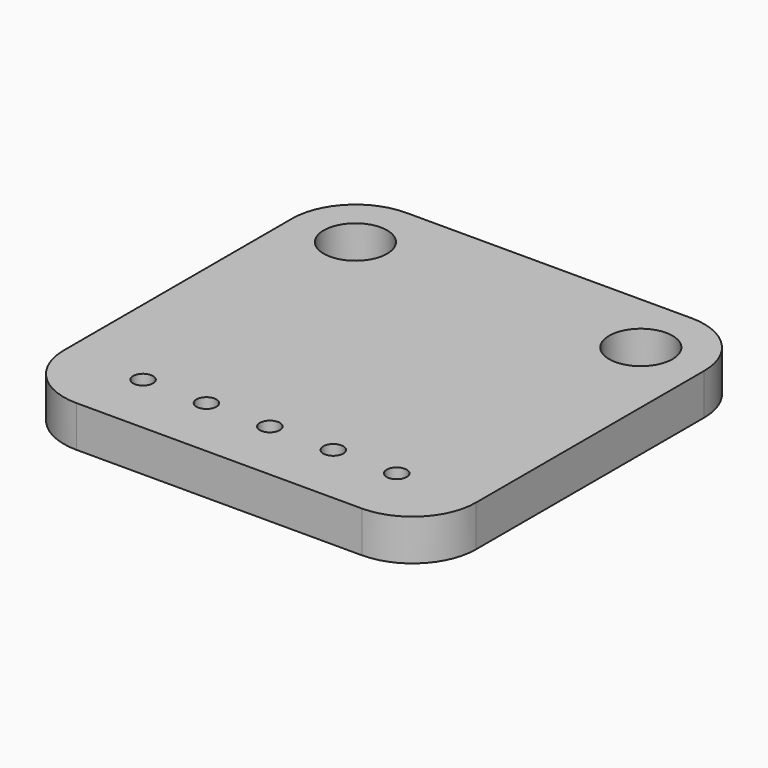
from build123d import *

# Parameters (mm, degrees)
PAD018_DEPTH           = 1.65
SKETCH050_R            = 1.27
POCKET030_DEPTH        = 1.651
SKETCH051_R            = 0.4
POCKET029_DEPTH        = 1.651
LINEARPATTERN004_COUNT = 3
LINEARPATTERN004_PITCH = 2.54
LINEARPATTERN005_COUNT = 3
LINEARPATTERN005_PITCH = 2.54


with BuildPart() as part:
    # Sketch049 → Pad018 (new body)
    with BuildSketch(Plane.XY):
        with BuildLine():
            Line((-5.715, 8.255), (5.715, 8.255))
            ThreePointArc((8.255, 5.715), (7.511051, 7.511051), (5.715, 8.255))
            Line((8.255, 5.715), (8.255, -5.715))
            ThreePointArc((5.715, -8.255), (7.511051, -7.511051), (8.255, -5.715))
            Line((5.715, -8.255), (-5.715, -8.255))
            ThreePointArc((-8.255, -5.715), (-7.511051, -7.511051), (-5.715, -8.255))
            Line((-8.255, -5.715), (-8.255, 5.715))
            ThreePointArc((-5.715, 8.255), (-7.511051, 7.511051), (-8.255, 5.715))
        make_face()
    extrude(amount=-PAD018_DEPTH)

    # Sketch050 → Pocket030 (cut, through all)
    with BuildSketch(Plane.XY):
        with Locations((-5.715, 5.715)):
            Circle(SKETCH050_R)
        with Locations((5.715, 5.715)):
            Circle(SKETCH050_R)
    extrude(amount=-POCKET030_DEPTH, mode=Mode.SUBTRACT)

    # Sketch051 → Pocket029 (cut, through all)
    with BuildSketch(Plane.XY):
        with Locations((0, -5.715)):
            Circle(SKETCH051_R)
    pocket029 = extrude(amount=-POCKET029_DEPTH, mode=Mode.SUBTRACT)

    # LinearPattern004: Pocket029 ×3
    with Locations(*[(i * LINEARPATTERN004_PITCH, 0, 0) for i in range(1, LINEARPATTERN004_COUNT)]):
        add(pocket029, mode=Mode.SUBTRACT)

    # LinearPattern005: Pocket029 ×3
    with Locations(*[(-i * LINEARPATTERN005_PITCH, 0, 0) for i in range(1, LINEARPATTERN005_COUNT)]):
        add(pocket029, mode=Mode.SUBTRACT)


solid = part.part
